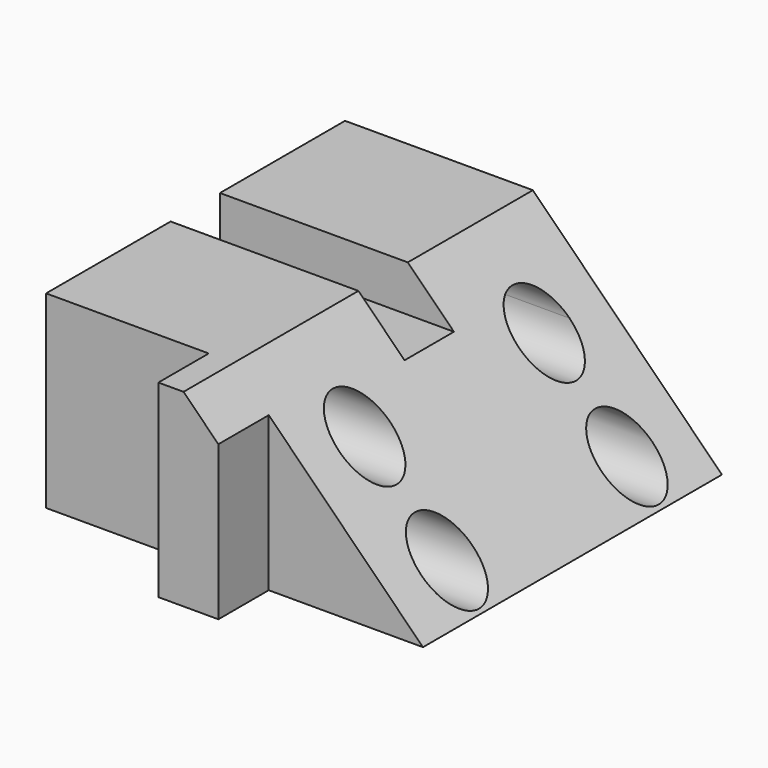
from build123d import *

# Parameters (mm, degrees)
F0_W      = 152.0007625222
F0_H      = 150.7072374225
F1_DEPTH  = 76.2
F3_DEPTH  = 76.2
F4_DEPTH  = 1270
F6_DEPTH  = 25.4
F7_W      = 24.8957742006
F7_H      = 18.5917448044
F8_DEPTH  = 1270
F10_DEPTH = 152.0017625222


with BuildPart() as f1:
    # F0 (on Top) → F1 (new body)
    with BuildSketch(Plane.XY):
        with Locations((0.2458952367, 0.141967088)):
            Rectangle(F0_W, F0_H)
    extrude(amount=F1_DEPTH)

    # F2 (on face) → F3 (cut)
    with BuildSketch(Plane.XZ.offset(75.2116516232)):
        Polygon((76.2462764978, 76.2), (0, 76.2), (76.2462764978, 0), align=None)
    extrude(amount=-F3_DEPTH, mode=Mode.SUBTRACT)

    # F4 (cut): a face of the model
    f4_faces = [f1.faces().sort_by_distance(p)[0] for p in [
        (50.8308509986, 0.9883483768, 50.8),
    ]]
    extrude(f4_faces, amount=-F4_DEPTH, mode=Mode.SUBTRACT)

    # F5 (on face) → F6 (join)
    with BuildSketch(Plane.XZ.offset(75.2116516232)):
        Polygon((0, 76.2), (-10.1499548182, 76.2), (-10.1499548182, 0), (14.0455085784, 0), (14.0455085784, 62.1630161257), align=None)
    extrude(amount=F6_DEPTH)

    # F7 (on face) → F8 (cut)
    with BuildSketch(Plane(origin=(-75.7544860244, 0, 0), x_dir=(0, -1, 0), z_dir=(-1, 0, 0))):
        with Locations((0, 66.9041275978)):
            Rectangle(F7_W, F7_H)
    extrude(amount=-F8_DEPTH, mode=Mode.SUBTRACT)

    # F9 (on face) → F10 (cut, through all)
    with BuildSketch(Plane(origin=(-75.7544860244, 0, 0), x_dir=(0, -1, 0), z_dir=(-1, 0, 0))):
        with BuildLine():
            Line((-57.8758810088, 47.2911335528), (-32.2743262723, 47.2911335528))
            ThreePointArc((-32.2743262723, 47.2911335528), (-45.0751036406, 60.091910921), (-57.8758810088, 47.2911335528))
        make_face()
        with BuildLine():
            ThreePointArc((-57.8758810088, 47.2911335528), (-45.0751036406, 34.4903561846), (-32.2743262723, 47.2911335528))
            Line((-32.2743262723, 47.2911335528), (-57.8758810088, 47.2911335528))
        make_face()
        with BuildLine():
            Line((-58.0906374395, 14.1140213236), (-32.4261682093, 14.1140213236))
            ThreePointArc((-32.4261682093, 14.1140213236), (-45.2584028244, 26.9462559387), (-58.0906374395, 14.1140213236))
        make_face()
        with BuildLine():
            ThreePointArc((-58.0906374395, 14.1140213236), (-45.2584028244, 1.2817867085), (-32.4261682093, 14.1140213236))
            Line((-32.4261682093, 14.1140213236), (-58.0906374395, 14.1140213236))
        make_face()
        with BuildLine():
            ThreePointArc((32.553633581, 14.1140213236), (45.4745851457, 1.1930697589), (58.3955367104, 14.1140213236))
            Line((58.3955367104, 14.1140213236), (32.553633581, 14.1140213236))
        make_face()
        with BuildLine():
            Line((32.553633581, 14.1140213236), (58.3955367104, 14.1140213236))
            ThreePointArc((58.3955367104, 14.1140213236), (45.4745851457, 27.0349728883), (32.553633581, 14.1140213236))
        make_face()
        with BuildLine():
            ThreePointArc((32.6371107909, 47.2911335528), (45.4745851457, 34.453659198), (58.3120595005, 47.2911335528))
            Line((58.3120595005, 47.2911335528), (32.6371107909, 47.2911335528))
        make_face()
        with BuildLine():
            Line((32.6371107909, 47.2911335528), (58.3120595005, 47.2911335528))
            ThreePointArc((58.3120595005, 47.2911335528), (45.4745851457, 60.1286079076), (32.6371107909, 47.2911335528))
        make_face()
    extrude(amount=-F10_DEPTH, mode=Mode.SUBTRACT)


solid = f1.part
